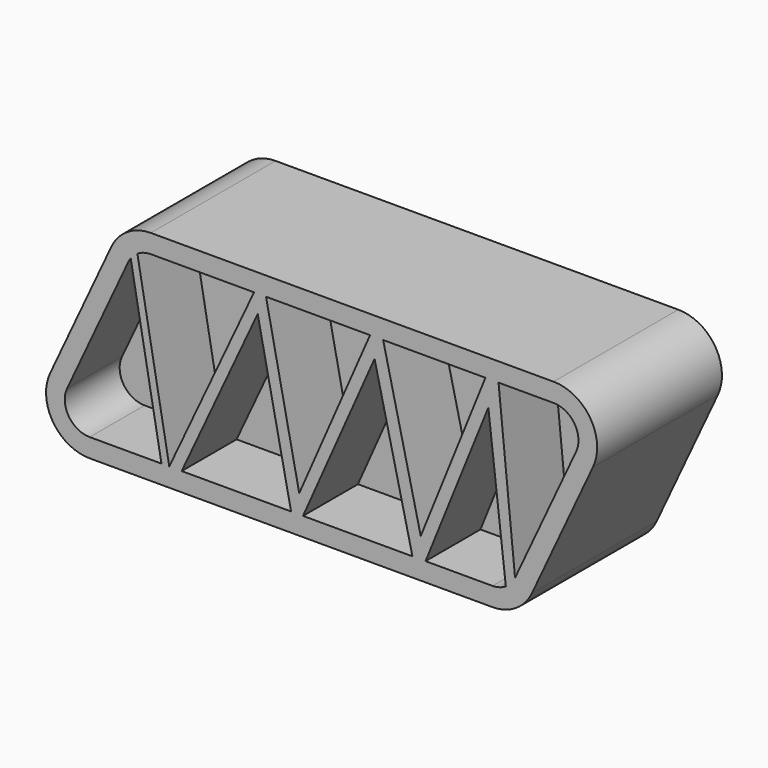
from build123d import *

# Parameters (mm, degrees)
F1_DEPTH = 25
F4_DEPTH = 1.5


with BuildPart() as f1:
    # F0 (on Front) → F1 (new body)
    with BuildSketch(Plane.XZ):
        with BuildLine():
            ThreePointArc((-33.633865, 7.958327), (-33.19345, 1.238902), (-27.28971, -2.000001))
            Line((-27.28971, -2.000001), (37.262999, -2.000001))
            ThreePointArc((37.262999, -2.000001), (41.024096, -0.903741), (43.607153, 2.041671))
            Line((43.607153, 2.041671), (53.399614, 23.041671))
            ThreePointArc((53.399614, 23.041671), (52.9592, 29.761097), (47.05546, 32.999999))
            Line((47.05546, 32.999999), (-17.49725, 32.999999))
            ThreePointArc((-17.49725, 32.999999), (-21.258347, 31.903739), (-23.841404, 28.958327))
            Line((-23.841404, 28.958327), (-33.633865, 7.958327))
        make_face()
        with BuildLine():
            Line((-30.914941, 6.690472), (-21.122481, 27.690472))
            ThreePointArc((-21.122481, 27.690472), (-20.937767, 28.040303), (-20.719401, 28.370177))
            Line((-20.719401, 28.370177), (-15.790062, 0.999999))
            Line((-15.790062, 0.999999), (-27.28971, 0.999999))
            ThreePointArc((-27.28971, 0.999999), (-30.663276, 2.850801), (-30.914941, 6.690472))
        make_face(mode=Mode.SUBTRACT)
        with BuildLine():
            ThreePointArc((-19.646448, 29.373565), (-18.616566, 29.840199), (-17.49725, 29.999999))
            Line((-17.49725, 29.999999), (-0.946572, 29.999999))
            Line((-0.946572, 29.999999), (-14.5364, 0.999999))
            Line((-14.5364, 0.999999), (-19.646448, 29.373565))
        make_face(mode=Mode.SUBTRACT)
        Polygon((-12.550904, 0.999999), (-0.361492, 27.14028), (4.986644, 0.999999), align=None, mode=Mode.SUBTRACT)
        Polygon((6.905234, 0.999999), (18.372576, 26.895071), (24.439983, 0.999999), align=None, mode=Mode.SUBTRACT)
        with BuildLine():
            ThreePointArc((39.412197, 1.626434), (38.382315, 1.1598), (37.262999, 0.999999))
            Line((37.262999, 0.999999), (26.542474, 0.999999))
            Line((26.542474, 0.999999), (36.609397, 25.947182))
            Line((36.609397, 25.947182), (39.412197, 1.626434))
        make_face(mode=Mode.SUBTRACT)
        Polygon((17.645068, 29.999999), (6.292948, 3.992694), (0.972018, 29.999999), align=None, mode=Mode.SUBTRACT)
        Polygon((36.142338, 29.999999), (25.77013, 4.296282), (19.747559, 29.999999), align=None, mode=Mode.SUBTRACT)
        with BuildLine():
            ThreePointArc((47.05546, 29.999999), (50.429025, 28.149198), (50.680691, 24.309526))
            Line((50.680691, 24.309526), (40.88823, 3.309526))
            Line((40.88823, 3.309526), (38.244829, 29.999999))
            Line((38.244829, 29.999999), (47.05546, 29.999999))
        make_face(mode=Mode.SUBTRACT)
    extrude(amount=F1_DEPTH)

    # F3 (on offset) → F4 (join, symmetric)
    with BuildSketch(Plane.XZ.offset(12.5)):
        Polygon((-32.50682, 4.622142), (-29.003944, -0.644573), (40.218219, 0), (49.982231, 17.865283), (52.67575, 25.833612), (50.543383, 29.761663), (46.615332, 31.894032), (-16.457932, 31.894032), (-21.059362, 30.098353), align=None)
    extrude(amount=F4_DEPTH, both=True)


solid = f1.part
